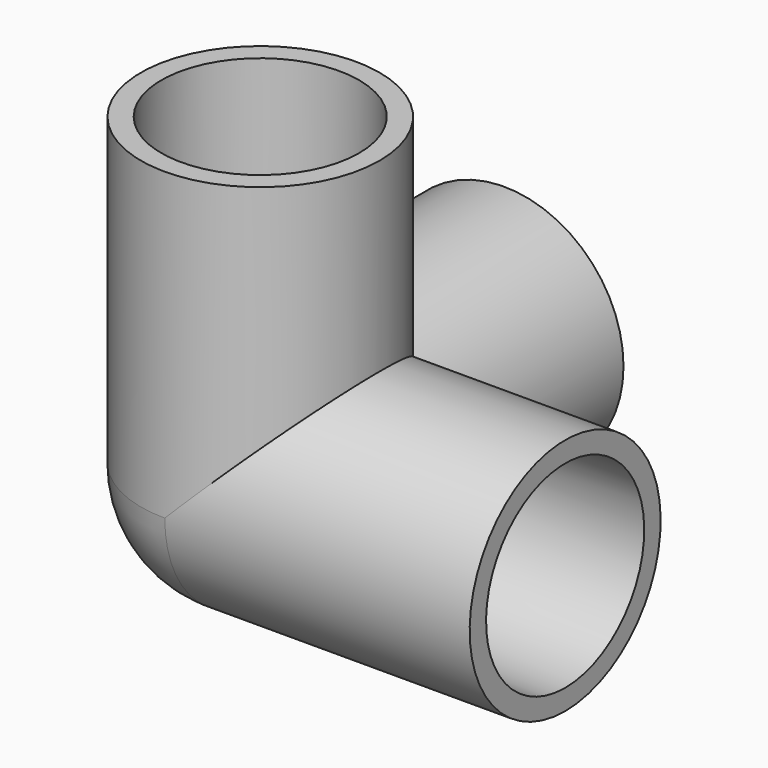
from build123d import *

# Parameters (mm, degrees)
OBJ1_R           = 13.0683
OBJ1_DEPTH       = 51.7525
OBJ1_ROLL_ANGLE  = -90
OBJ2_R           = 13.0683
OBJ2_DEPTH       = 51.7525
OBJ3_R                = 16.7767
OBJ3_DEPTH            = 31.7754
OBJ3_PITCH_ANGLE      = 90
OBJ4_R                = 16.7767
OBJ4_DEPTH            = 31.7754
OBJ4_ROLL_ANGLE       = -90
OBJ5_R                = 16.7767
OBJ5_DEPTH            = 31.7754
OBJ6           = 13.0683
OBJ7       = 51.7525
OBJ8 = 90
OBJ9_R              = 20.2565
OBJ9_DEPTH          = 51.7525
OBJ9_ROLL_ANGLE     = -90
OBJ10_R              = 20.2565
OBJ10_DEPTH          = 51.7525
OBJ11              = 20.2565
OBJ12          = 51.7525
OBJ13    = 90


with BuildPart() as obj1:
    # obj1 → obj1 (new body)
    with BuildSketch(Plane.XY):
        Circle(OBJ1_R)
    extrude(amount=OBJ1_DEPTH)


with BuildPart() as obj1_1:
    # obj1 roll: moved
    add(obj1.part.rotate(Axis((0, 0, 0), (1, 0, 0)), OBJ1_ROLL_ANGLE))


with BuildPart() as obj1_2:
    # obj1 placement: moved
    add(obj1_1.part)


with BuildPart() as obj2:
    # obj2 → obj2 (new body)
    with BuildSketch(Plane.XY):
        Circle(OBJ2_R)
    extrude(amount=OBJ2_DEPTH)


with BuildPart() as sphere001:
    # Sphere001 → Sphere001 (revolve)
    with BuildSketch(Plane.XZ):
        with BuildLine():
            ThreePointArc((0, -13.0683), (13.0683, 0), (0, 13.0683))
            Line((0, 13.0683), (0, -13.0683))
        make_face()
    revolve(axis=Axis((0, 0, 0), (0, 0, 1)))


with BuildPart() as obj3:
    # obj3 → obj3 (new body)
    with BuildSketch(Plane.XY):
        Circle(OBJ3_R)
    extrude(amount=OBJ3_DEPTH)


with BuildPart() as obj3_1:
    # obj3 pitch: moved
    add(obj3.part.rotate(Axis((0, 0, 0), (0, 1, 0)), OBJ3_PITCH_ANGLE))


with BuildPart() as obj3_2:
    # obj3 placement: moved
    add(obj3_1.part.moved(Location((19.9771, 0, 0))))


with BuildPart() as obj4:
    # obj4 → obj4 (new body)
    with BuildSketch(Plane.XY):
        Circle(OBJ4_R)
    extrude(amount=OBJ4_DEPTH)


with BuildPart() as obj4_1:
    # obj4 roll: moved
    add(obj4.part.rotate(Axis((0, 0, 0), (1, 0, 0)), OBJ4_ROLL_ANGLE))


with BuildPart() as obj4_2:
    # obj4 placement: moved
    add(obj4_1.part.moved(Location((0, 19.9771, 0))))


with BuildPart() as obj5:
    # obj5 → obj5 (new body)
    with BuildSketch(Plane.XY.offset(19.9771)):
        Circle(OBJ5_R)
    extrude(amount=OBJ5_DEPTH)


with BuildPart() as fusion001:
    with BuildSketch(Plane.XY):
        Circle(OBJ6)
    extrude(amount=OBJ7)


with BuildPart() as fusion001_1:
    add(fusion001.part.rotate(Axis((0, 0, 0), (0, 1, 0)), OBJ8))


with BuildPart() as fusion001_2:
    add(fusion001_1.part)

    # Fusion001: union obj1, obj2, Sphere001, obj3, obj4, obj5
    add(obj1_2.part)
    add(obj2.part)
    add(sphere001.part)
    add(obj3_2.part)
    add(obj4_2.part)
    add(obj5.part)


with BuildPart() as obj9:
    # obj9 → obj9 (new body)
    with BuildSketch(Plane.XY):
        Circle(OBJ9_R)
    extrude(amount=OBJ9_DEPTH)


with BuildPart() as obj9_1:
    # obj9 roll: moved
    add(obj9.part.rotate(Axis((0, 0, 0), (1, 0, 0)), OBJ9_ROLL_ANGLE))


with BuildPart() as obj9_2:
    # obj9 placement: moved
    add(obj9_1.part)


with BuildPart() as obj10:
    # obj10 → obj10 (new body)
    with BuildSketch(Plane.XY):
        Circle(OBJ10_R)
    extrude(amount=OBJ10_DEPTH)


with BuildPart() as sphere:
    # Sphere → Sphere (revolve)
    with BuildSketch(Plane.XZ):
        with BuildLine():
            ThreePointArc((0, -20.2565), (20.2565, 0), (0, 20.2565))
            Line((0, 20.2565), (0, -20.2565))
        make_face()
    revolve(axis=Axis((0, 0, 0), (0, 0, 1)))


with BuildPart() as f0013we:
    with BuildSketch(Plane.XY):
        Circle(OBJ11)
    extrude(amount=OBJ12)


with BuildPart() as f0013we_1:
    add(f0013we.part.rotate(Axis((0, 0, 0), (0, 1, 0)), OBJ13))


with BuildPart() as f0013we_2:
    add(f0013we_1.part)

    # Fusion: union obj9, obj10, Sphere
    add(obj9_2.part)
    add(obj10.part)
    add(sphere.part)

    # Cut: cut Fusion001
    add(fusion001_2.part, mode=Mode.SUBTRACT)


solid = f0013we_2.part
